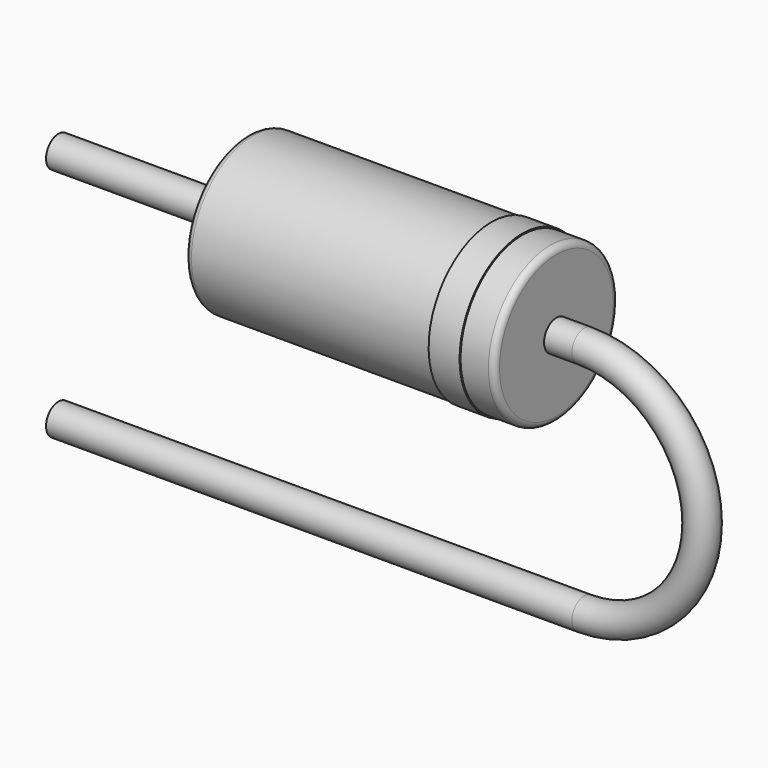
from build123d import *

# Parameters (mm, degrees)
SKETCH_R    = 0.25
SKETCH002_W = 5
SKETCH002_H = 1.25
FILLET_R    = 0.1
SKETCH003_W = 0.5
SKETCH003_H = 0.02


with BuildPart() as sweep_body:
    # Sweep: sweep along a path in Sketch001
    with BuildLine(Plane.XZ) as sweep_path:
        Line((-2.5, 0), (6, 0))
        ThreePointArc((6, 0), (7.905, 1.905), (6, 3.81))
        Line((6, 3.81), (-2.5, 3.81))
    # Sketch → Sweep (sweep)
    with BuildSketch(Plane.YZ.offset(-2.5)):
        Circle(SKETCH_R)
    sweep(path=sweep_path.line, is_frenet=True)


with BuildPart() as fillet_body:
    # Sketch002 → Revolution (revolve)
    with BuildSketch(Plane.XZ):
        with Locations((3.05, 4.435)):
            Rectangle(SKETCH002_W, SKETCH002_H)
    revolve(axis=Axis((0.55, 0, 3.81), (1, 0, 0)))

    # Fillet
    fillet_edges = [fillet_body.edges().sort_by_distance(p)[0] for p in [
        (0.55, 0, 2.56),
        (5.55, 0, 2.56),
    ]]
    fillet(fillet_edges, radius=FILLET_R)


with BuildPart() as revolution001:
    # Sketch003 → Revolution001 (revolve)
    with BuildSketch(Plane.XZ):
        with Locations((4.75, 5.07)):
            Rectangle(SKETCH003_W, SKETCH003_H)
    revolve(axis=Axis((0, 0, 3.81), (1, 0, 0)))


solid = Compound([sweep_body.part, fillet_body.part, revolution001.part])
